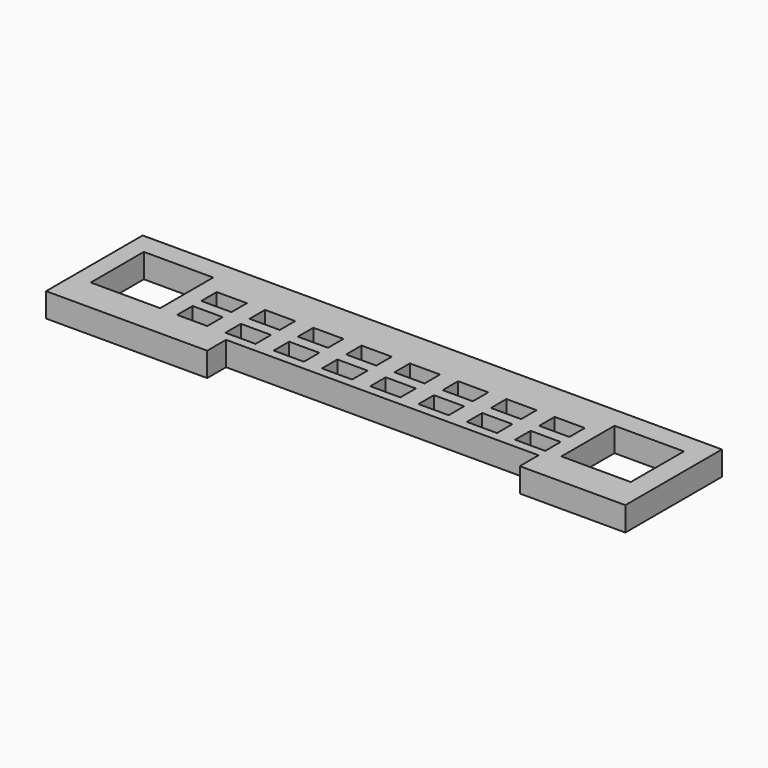
from build123d import *

# Parameters (mm, degrees)
F0_W     = 96
F0_H     = 20
F2_DEPTH = 4
F1_W     = 11.5
F1_H     = 11
F1_W_2   = 5
F1_H_2   = 3.2
F1_W_3   = 51.8
F1_H_3   = 3.9
F3_DEPTH = 4.001


with BuildPart() as f2:
    # F0 (on Top) → F2 (new body)
    with BuildSketch(Plane.XY):
        with Locations((48, 10)):
            Rectangle(F0_W, F0_H)
    extrude(amount=F2_DEPTH)

    # F1 (on Top) → F3 (cut, through all)
    with BuildSketch(Plane.XY):
        with Locations((8.75, 11)):
            Rectangle(F1_W, F1_H)
        with Locations((86.75, 11)):
            Rectangle(F1_W, F1_H)
        with Locations((19.9, 12)):
            Rectangle(F1_W_2, F1_H_2)
        with Locations((19.9, 7)):
            Rectangle(F1_W_2, F1_H_2)
        with Locations((27.9, 12)):
            Rectangle(F1_W_2, F1_H_2)
        with Locations((27.9, 7)):
            Rectangle(F1_W_2, F1_H_2)
        with Locations((35.9, 12)):
            Rectangle(F1_W_2, F1_H_2)
        with Locations((35.9, 7)):
            Rectangle(F1_W_2, F1_H_2)
        with Locations((43.9, 12)):
            Rectangle(F1_W_2, F1_H_2)
        with Locations((43.9, 7)):
            Rectangle(F1_W_2, F1_H_2)
        with Locations((51.9, 12)):
            Rectangle(F1_W_2, F1_H_2)
        with Locations((51.9, 7)):
            Rectangle(F1_W_2, F1_H_2)
        with Locations((59.9, 12)):
            Rectangle(F1_W_2, F1_H_2)
        with Locations((59.9, 7)):
            Rectangle(F1_W_2, F1_H_2)
        with Locations((67.9, 12)):
            Rectangle(F1_W_2, F1_H_2)
        with Locations((67.9, 7)):
            Rectangle(F1_W_2, F1_H_2)
        with Locations((75.9, 12)):
            Rectangle(F1_W_2, F1_H_2)
        with Locations((75.9, 7)):
            Rectangle(F1_W_2, F1_H_2)
        with Locations((52.6, 1.95)):
            Rectangle(F1_W_3, F1_H_3)
    extrude(amount=F3_DEPTH, mode=Mode.SUBTRACT)


solid = f2.part
